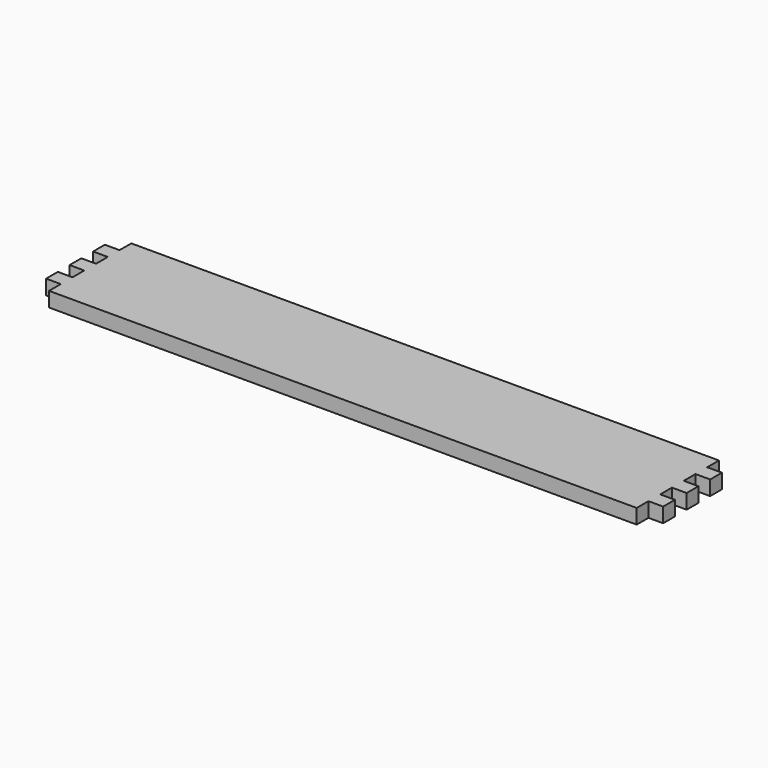
from build123d import *

# Parameters (mm, degrees)
F0_W     = 533.4
F0_H     = 88.9
F1_DEPTH = 12.7
F2_W     = 12.7
F2_H     = 12.7
F3_DEPTH = 25.4
F4_W     = 12.7
F4_H     = 12.7
F5_DEPTH = 25.4


with BuildPart() as f1:
    # F0 (on Top) → F1 (new body)
    with BuildSketch(Plane.XY):
        with Locations((266.7, 44.45)):
            Rectangle(F0_W, F0_H)
    extrude(amount=F1_DEPTH)

    # F2 (on face) → F3 (cut)
    with BuildSketch(Plane.XY.offset(12.7)):
        with Locations((527.05, 6.35)):
            Rectangle(F2_W, F2_H)
        with Locations((527.05, 31.75)):
            Rectangle(F2_W, F2_H)
        with Locations((527.05, 57.15)):
            Rectangle(F2_W, F2_H)
        with Locations((527.05, 82.55)):
            Rectangle(F2_W, F2_H)
    extrude(amount=-F3_DEPTH, mode=Mode.SUBTRACT)

    # F4 (on face) → F5 (cut)
    with BuildSketch(Plane.XY.offset(12.7)):
        with Locations((6.35, 6.35)):
            Rectangle(F4_W, F4_H)
        with Locations((6.35, 31.75)):
            Rectangle(F4_W, F4_H)
        with Locations((6.35, 82.55)):
            Rectangle(F4_W, F4_H)
        with Locations((6.35, 57.15)):
            Rectangle(F4_W, F4_H)
    extrude(amount=-F5_DEPTH, mode=Mode.SUBTRACT)


solid = f1.part
